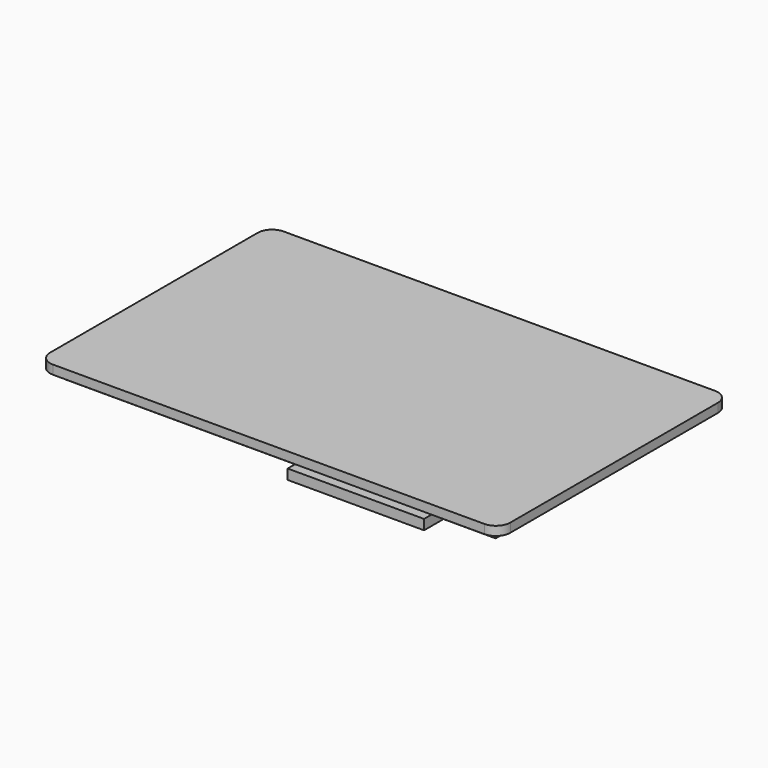
from build123d import *

# Parameters (mm, degrees)
F0_W     = 81.4197
F0_H     = 51.0032
F1_DEPTH = 0.79375
F2_R     = 2.54
F3_W     = 76.0984
F3_H     = 45.72
F4_DEPTH = 1.778
F5_W     = 24.139271
F5_H     = 10.512263
F6_DEPTH = 1.778


with BuildPart() as f1:
    # F0 (on Top) → F1 (new body, symmetric)
    with BuildSketch(Plane.XY):
        Rectangle(F0_W, F0_H)
    extrude(amount=F1_DEPTH, both=True)

    # F2
    f2_edges = [f1.edges().sort_by_distance(p)[0] for p in [
        (40.70985, -25.5016, 0),
        (40.70985, 25.5016, 0),
        (-40.70985, -25.5016, 0),
        (-40.70985, 25.5016, 0),
    ]]
    fillet(f2_edges, radius=F2_R)

    # F3 (on face) → F4 (join)
    with BuildSketch(Plane(origin=(0, 0, -0.79375), x_dir=(1, 0, 0), z_dir=(0, 0, -1))):
        Rectangle(F3_W, F3_H)
    extrude(amount=F4_DEPTH)

    # F5 (on face) → F6 (join, through all)
    with BuildSketch(Plane(origin=(0, 0, -0.79375), x_dir=(1, 0, 0), z_dir=(0, 0, -1))):
        with Locations((16.741752, 21.900548)):
            Rectangle(F5_W, F5_H)
    extrude(amount=F6_DEPTH)


solid = f1.part
